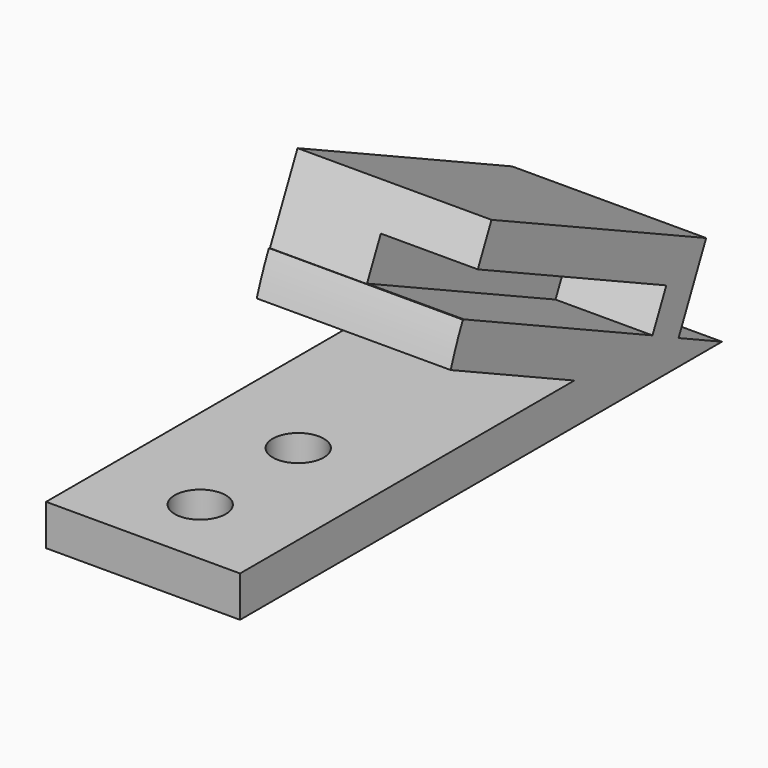
from build123d import *

# Parameters (mm, degrees)
CYLINDER027_R          = 2.5
CYLINDER027_DEPTH      = 10
CYLINDER024_R          = 2.5
CYLINDER024_DEPTH      = 10
CYLINDER025_W          = 35
CYLINDER025_H          = 19
CYLINDER025_ANGLE      = 25
CYLINDER026_W          = 35
CYLINDER026_H          = 19
CYLINDER026_ANGLE      = 25
BOX030_W               = 19
BOX030_H               = 50
BOX030_DEPTH           = 4
BOX033_W               = 140
BOX033_H               = 162
BOX033_DEPTH           = 4
BOX033_ROLL_ANGLE      = 25.000043
BOX033_PLACEMENT_ANGLE = 180
BOX031_W               = 19
BOX031_H               = 29
BOX031_DEPTH           = 8
BOX031_PLACEMENT_ANGLE = 25


with BuildPart() as m4s007:
    # Cylinder027 → Cylinder027 (new body)
    with BuildSketch(Plane(origin=(177.5, 240.5, 0), x_dir=(1, 0, 0), z_dir=(0, 0, 1))):
        Circle(CYLINDER027_R)
    extrude(amount=CYLINDER027_DEPTH)


with BuildPart() as m4lowcut003:
    # Cylinder024 → Cylinder024 (new body)
    with BuildSketch(Plane(origin=(177.5, 252.5, 0), x_dir=(1, 0, 0), z_dir=(0, 0, 1))):
        Circle(CYLINDER024_R)
    extrude(amount=CYLINDER024_DEPTH)

    # Fusion013: union m4s007
    add(m4s007.part)


with BuildPart() as cylinder025:
    # Cylinder025 → Cylinder025 (revolve)
    with BuildSketch(Plane(origin=(187, 283, 4), x_dir=(0, -1, 0), z_dir=(0, 0, -1))):
        with Locations((17.5, 9.5)):
            Rectangle(CYLINDER025_W, CYLINDER025_H)
    revolve(axis=Axis((187, 283, 4), (-1, 0, 0)), revolution_arc=CYLINDER025_ANGLE)


with BuildPart() as bottom006:
    # Cylinder026 → Cylinder026 (revolve)
    with BuildSketch(Plane(origin=(187, 292.5, 4), x_dir=(0, -1, 0), z_dir=(0, 0, -1))):
        with Locations((17.5, 9.5)):
            Rectangle(CYLINDER026_W, CYLINDER026_H)
    revolve(axis=Axis((187, 292.5, 4), (-1, 0, 0)), revolution_arc=CYLINDER026_ANGLE)

    # Cut021: cut Cylinder025
    add(cylinder025.part, mode=Mode.SUBTRACT)


with BuildPart() as bottomleft:
    # Box030 → Box030 (new body)
    with BuildSketch(Plane(origin=(168, 233.5, 4), x_dir=(1, 0, 0), z_dir=(0, 0, 1))):
        with Locations((9.5, 25)):
            Rectangle(BOX030_W, BOX030_H)
    extrude(amount=BOX030_DEPTH)

    # Fusion014: union bottom006
    add(bottom006.part)

    # Cut022: cut m4lowCut003
    add(m4lowcut003.part, mode=Mode.SUBTRACT)


with BuildPart() as bottomleft_1:
    # Cut022 placement: moved
    add(bottomleft.part.moved(Location((-144, 0, 0))))


with BuildPart() as solar_panel009:
    # Box033 → Box033 (new body)
    with BuildSketch(Plane.XY):
        with Locations((70, 81)):
            Rectangle(BOX033_W, BOX033_H)
    extrude(amount=BOX033_DEPTH)


with BuildPart() as solar_panel009_1:
    # Box033 roll: moved
    add(solar_panel009.part.rotate(Axis((0, 0, 0), (1, 0, 0)), BOX033_ROLL_ANGLE))


with BuildPart() as solar_panel009_2:
    # Box033 placement: moved
    add(solar_panel009_1.part.moved(Location((173.5, 284, 8))).rotate(Axis((173.5, 284, 8), (0, 0, 1)), BOX033_PLACEMENT_ANGLE))


with BuildPart() as topleft001:
    # Box031 → Box031 (new body)
    with BuildSketch(Plane.XY):
        with Locations((9.5, 14.5)):
            Rectangle(BOX031_W, BOX031_H)
    extrude(amount=BOX031_DEPTH)


with BuildPart() as topleft001_1:
    # Box031 placement: moved
    add(topleft001.part.moved(Location((24, 260.906, 18.73))).rotate(Axis((24, 260.906, 18.73), (-1, 0, 0)), BOX031_PLACEMENT_ANGLE))

    # Cut023: cut solar Panel009
    add(solar_panel009_2.part, mode=Mode.SUBTRACT)

    # Fusion027: union bottomLeft
    add(bottomleft_1.part)


solid = topleft001_1.part
